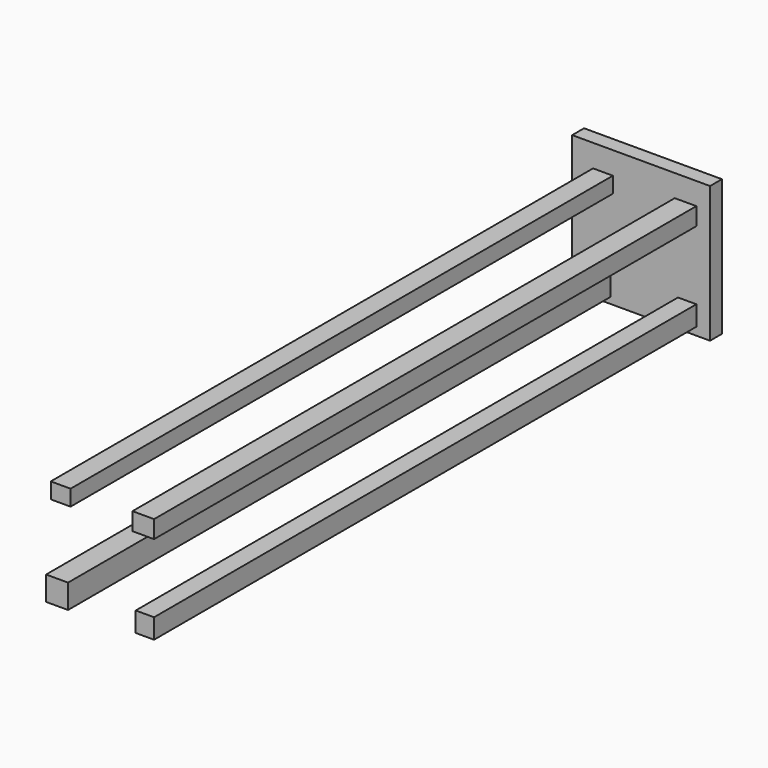
from build123d import *

# Parameters (mm, degrees)
F0_W     = 22.187569
F0_H     = 24.369955
F0_W_2   = 18.550262
F0_H_2   = 20.005181
F0_W_3   = 21.823838
F0_H_3   = 17.822802
F0_W_4   = 20.005189
F0_H_4   = 16.004146
F1_DEPTH = 700
F2_W     = 139.310129
F2_H     = 137.634568
F3_DEPTH = 15


with BuildPart() as f1:
    # F0 (on Front) → F1 (new body)
    with BuildSketch(Plane.XZ):
        with Locations((-42.738344, -49.285486)):
            Rectangle(F0_W, F0_H)
        with Locations((46.011932, -49.649216)):
            Rectangle(F0_W_2, F0_H_2)
        with Locations((44.375144, 38.737327)):
            Rectangle(F0_W_3, F0_H_3)
        with Locations((-39.101038, 39.282918)):
            Rectangle(F0_W_4, F0_H_4)
    extrude(amount=F1_DEPTH)


with BuildPart() as f3:
    # F2 (on Front) → F3 (new body)
    with BuildSketch(Plane.XZ):
        with Locations((-0.526007, 1.20936)):
            Rectangle(F2_W, F2_H)
    extrude(amount=F3_DEPTH)


solid = Compound([f1.part, f3.part])
